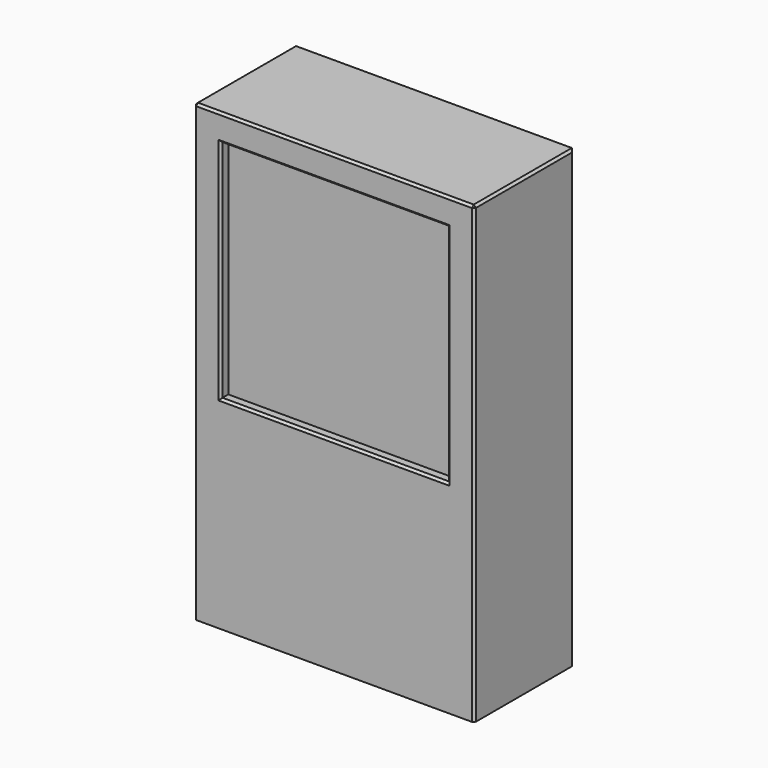
from build123d import *

# Parameters (mm, degrees)
F0_W     = 798.5125
F0_H     = 1295.4
F1_DEPTH = 355.6
F2_DEPTH = 328.5871
F3_SIZE  = 6.35
F4_SIZE  = 6.35


with BuildPart() as f1:
    # F0 (on Front) → F1 (new body)
    with BuildSketch(Plane.XZ):
        Rectangle(F0_W, F0_H)
        Polygon((323.05625, 571.5), (323.05625, 323.85), (323.05625, -69.85), (-323.05625, -69.85), (-323.05625, 571.5), align=None, mode=Mode.SUBTRACT)
    extrude(amount=F1_DEPTH)

    # F0 (on Front) → F2 (join)
    with BuildSketch(Plane.XZ):
        Polygon((323.05625, -69.85), (323.05625, 323.85), (323.05625, 571.5), (-323.05625, 571.5), (-323.05625, -69.85), align=None)
    extrude(amount=F2_DEPTH)

    # F3
    f3_edges = [f1.edges().sort_by_distance(p)[0] for p in [
        (0, -355.6, -69.85),
        (-323.05625, -355.6, 250.825),
        (0, -355.6, 571.5),
        (323.05625, -355.6, 250.825),
    ]]
    chamfer(f3_edges, length=F3_SIZE)

    # F4
    f4_edges = [f1.edges().sort_by_distance(p)[0] for p in [
        (399.25625, -355.6, 0),
        (0, -355.6, 647.7),
        (-399.25625, -355.6, 0),
        (-399.25625, -177.8, 647.7),
        (399.25625, -177.8, 647.7),
        (-399.25625, 0, 0),
        (399.25625, 0, 0),
    ]]
    chamfer(f4_edges, length=F4_SIZE)


solid = f1.part
